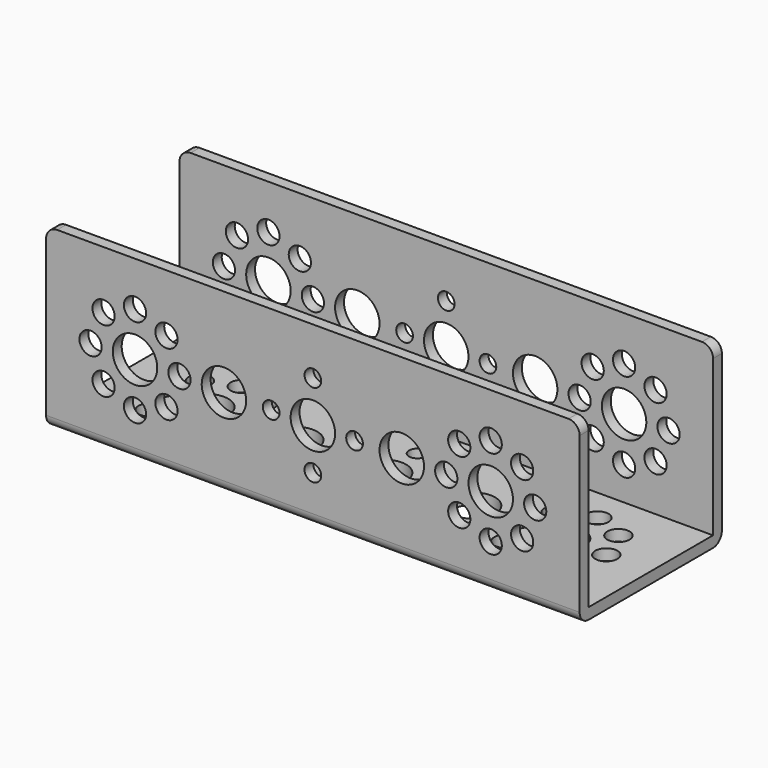
from build123d import *

# Parameters (mm, degrees)
F0_W     = 96
F0_H     = 32
F0_R     = 2
F0_R_2   = 1.5
F0_R_3   = 4
F5_DEPTH = 2
F3_W     = 96
F3_H     = 32
F3_R     = 2
F3_R_2   = 1.5
F3_R_3   = 4
F6_DEPTH = 2
F4_W     = 96
F4_H     = 32
F4_R     = 2
F4_R_2   = 1.5
F4_R_3   = 4
F7_DEPTH = 2
F8_R     = 2


with BuildPart() as f5:
    # F0 (on Top) → F5 (new body)
    with BuildSketch(Plane.XY):
        Rectangle(F0_W, F0_H)
        with Locations((-37.656854, -5.656854)):
            Circle(F0_R, mode=Mode.SUBTRACT)
        with Locations((-32, -8)):
            Circle(F0_R, mode=Mode.SUBTRACT)
        with Locations((-26.343146, -5.656854)):
            Circle(F0_R, mode=Mode.SUBTRACT)
        with Locations((0, -7.5)):
            Circle(F0_R_2, mode=Mode.SUBTRACT)
        with Locations((32, -8)):
            Circle(F0_R, mode=Mode.SUBTRACT)
        with Locations((26.343146, -5.656854)):
            Circle(F0_R, mode=Mode.SUBTRACT)
        with Locations((37.656854, -5.656854)):
            Circle(F0_R, mode=Mode.SUBTRACT)
        with BuildLine():
            ThreePointArc((-42, 0), (-40, 2), (-38, 0))
            ThreePointArc((-38, 0), (-40, -2), (-42, 0))
        make_face(mode=Mode.SUBTRACT)
        with BuildLine():
            ThreePointArc((-28, 0), (-32, -4), (-36, 0))
            ThreePointArc((-36, 0), (-32, 4), (-28, 0))
        make_face(mode=Mode.SUBTRACT)
        with Locations((-37.656854, 5.656854)):
            Circle(F0_R, mode=Mode.SUBTRACT)
        with Locations((-26.343146, 5.656854)):
            Circle(F0_R, mode=Mode.SUBTRACT)
        with Locations((-24, 0)):
            Circle(F0_R, mode=Mode.SUBTRACT)
        with Locations((-16, 0)):
            Circle(F0_R_3, mode=Mode.SUBTRACT)
        with Locations((-7.5, 0)):
            Circle(F0_R_2, mode=Mode.SUBTRACT)
        with Locations((-32, 8)):
            Circle(F0_R, mode=Mode.SUBTRACT)
        Circle(F0_R_3, mode=Mode.SUBTRACT)
        with Locations((7.5, 0)):
            Circle(F0_R_2, mode=Mode.SUBTRACT)
        with Locations((16, 0)):
            Circle(F0_R_3, mode=Mode.SUBTRACT)
        with Locations((0, 7.5)):
            Circle(F0_R_2, mode=Mode.SUBTRACT)
        with Locations((24, 0)):
            Circle(F0_R, mode=Mode.SUBTRACT)
        with Locations((32, 0)):
            Circle(F0_R_3, mode=Mode.SUBTRACT)
        with Locations((40, 0)):
            Circle(F0_R, mode=Mode.SUBTRACT)
        with Locations((26.343146, 5.656854)):
            Circle(F0_R, mode=Mode.SUBTRACT)
        with Locations((37.656854, 5.656854)):
            Circle(F0_R, mode=Mode.SUBTRACT)
        with Locations((32, 8)):
            Circle(F0_R, mode=Mode.SUBTRACT)
    extrude(amount=F5_DEPTH)

    # F3 (on face) → F6 (join)
    with BuildSketch(Plane(origin=(0, 16, 0), x_dir=(-1, 0, 0), z_dir=(0, 1, 0))):
        with Locations((0, 16)):
            Rectangle(F3_W, F3_H)
        with Locations((-37.656854, 10.343146)):
            Circle(F3_R, mode=Mode.SUBTRACT)
        with Locations((-32, 8)):
            Circle(F3_R, mode=Mode.SUBTRACT)
        with Locations((-26.343146, 10.343146)):
            Circle(F3_R, mode=Mode.SUBTRACT)
        with Locations((0, 8.5)):
            Circle(F3_R_2, mode=Mode.SUBTRACT)
        with Locations((32, 8)):
            Circle(F3_R, mode=Mode.SUBTRACT)
        with Locations((26.343146, 10.343146)):
            Circle(F3_R, mode=Mode.SUBTRACT)
        with Locations((37.656854, 10.343146)):
            Circle(F3_R, mode=Mode.SUBTRACT)
        with BuildLine():
            ThreePointArc((-42, 16), (-40, 18), (-38, 16))
            ThreePointArc((-38, 16), (-40, 14), (-42, 16))
        make_face(mode=Mode.SUBTRACT)
        with BuildLine():
            ThreePointArc((-28, 16), (-32, 12), (-36, 16))
            ThreePointArc((-36, 16), (-32, 20), (-28, 16))
        make_face(mode=Mode.SUBTRACT)
        with Locations((-37.656854, 21.656854)):
            Circle(F3_R, mode=Mode.SUBTRACT)
        with Locations((-26.343146, 21.656854)):
            Circle(F3_R, mode=Mode.SUBTRACT)
        with Locations((-24, 16)):
            Circle(F3_R, mode=Mode.SUBTRACT)
        with Locations((-16, 16)):
            Circle(F3_R_3, mode=Mode.SUBTRACT)
        with Locations((-7.5, 16)):
            Circle(F3_R_2, mode=Mode.SUBTRACT)
        with Locations((-32, 24)):
            Circle(F3_R, mode=Mode.SUBTRACT)
        with Locations((0, 16)):
            Circle(F3_R_3, mode=Mode.SUBTRACT)
        with Locations((7.5, 16)):
            Circle(F3_R_2, mode=Mode.SUBTRACT)
        with Locations((16, 16)):
            Circle(F3_R_3, mode=Mode.SUBTRACT)
        with Locations((0, 23.5)):
            Circle(F3_R_2, mode=Mode.SUBTRACT)
        with Locations((24, 16)):
            Circle(F3_R, mode=Mode.SUBTRACT)
        with Locations((32, 16)):
            Circle(F3_R_3, mode=Mode.SUBTRACT)
        with Locations((40, 16)):
            Circle(F3_R, mode=Mode.SUBTRACT)
        with Locations((26.343146, 21.656854)):
            Circle(F3_R, mode=Mode.SUBTRACT)
        with Locations((37.656854, 21.656854)):
            Circle(F3_R, mode=Mode.SUBTRACT)
        with Locations((32, 24)):
            Circle(F3_R, mode=Mode.SUBTRACT)
    extrude(amount=-F6_DEPTH)

    # F4 (on face) → F7 (join)
    with BuildSketch(Plane(origin=(0, -16, 0), x_dir=(-1, 0, 0), z_dir=(0, 1, 0))):
        with Locations((0, 16)):
            Rectangle(F4_W, F4_H)
        with Locations((-37.656854, 10.343146)):
            Circle(F4_R, mode=Mode.SUBTRACT)
        with Locations((-32, 8)):
            Circle(F4_R, mode=Mode.SUBTRACT)
        with Locations((-26.343146, 10.343146)):
            Circle(F4_R, mode=Mode.SUBTRACT)
        with Locations((0, 8.5)):
            Circle(F4_R_2, mode=Mode.SUBTRACT)
        with Locations((32, 8)):
            Circle(F4_R, mode=Mode.SUBTRACT)
        with Locations((26.343146, 10.343146)):
            Circle(F4_R, mode=Mode.SUBTRACT)
        with Locations((37.656854, 10.343146)):
            Circle(F4_R, mode=Mode.SUBTRACT)
        with Locations((-40, 16)):
            Circle(F4_R, mode=Mode.SUBTRACT)
        with BuildLine():
            ThreePointArc((-28, 16), (-32, 12), (-36, 16))
            ThreePointArc((-36, 16), (-32, 20), (-28, 16))
        make_face(mode=Mode.SUBTRACT)
        with Locations((-37.656854, 21.656854)):
            Circle(F4_R, mode=Mode.SUBTRACT)
        with Locations((-26.343146, 21.656854)):
            Circle(F4_R, mode=Mode.SUBTRACT)
        with Locations((-24, 16)):
            Circle(F4_R, mode=Mode.SUBTRACT)
        with Locations((-16, 16)):
            Circle(F4_R_3, mode=Mode.SUBTRACT)
        with Locations((-7.5, 16)):
            Circle(F4_R_2, mode=Mode.SUBTRACT)
        with Locations((-32, 24)):
            Circle(F4_R, mode=Mode.SUBTRACT)
        with Locations((0, 16)):
            Circle(F4_R_3, mode=Mode.SUBTRACT)
        with Locations((7.5, 16)):
            Circle(F4_R_2, mode=Mode.SUBTRACT)
        with Locations((16, 16)):
            Circle(F4_R_3, mode=Mode.SUBTRACT)
        with Locations((0, 23.5)):
            Circle(F4_R_2, mode=Mode.SUBTRACT)
        with Locations((24, 16)):
            Circle(F4_R, mode=Mode.SUBTRACT)
        with Locations((32, 16)):
            Circle(F4_R_3, mode=Mode.SUBTRACT)
        with Locations((40, 16)):
            Circle(F4_R, mode=Mode.SUBTRACT)
        with Locations((26.343146, 21.656854)):
            Circle(F4_R, mode=Mode.SUBTRACT)
        with Locations((37.656854, 21.656854)):
            Circle(F4_R, mode=Mode.SUBTRACT)
        with Locations((32, 24)):
            Circle(F4_R, mode=Mode.SUBTRACT)
    extrude(amount=F7_DEPTH)

    # F8
    f8_edges = [f5.edges().sort_by_distance(p)[0] for p in [
        (0, 16, 0),
        (48, 15, 32),
        (48, -15, 32),
        (0, -16, 0),
        (-48, 15, 32),
        (-48, -15, 32),
    ]]
    fillet(f8_edges, radius=F8_R)


solid = f5.part
